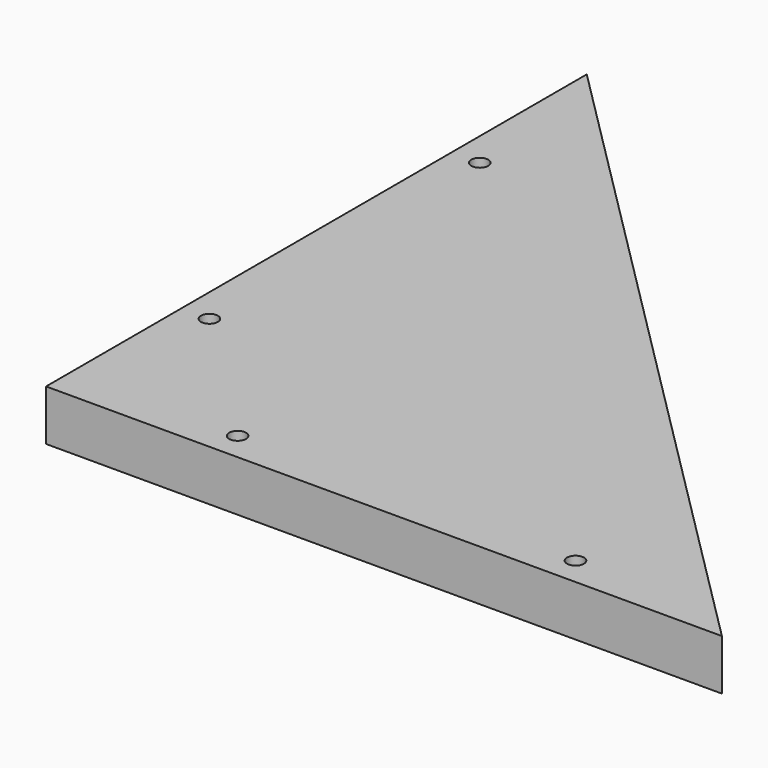
from build123d import *

# Parameters (mm, degrees)
PAD_DEPTH    = 9
SKETCH001_R  = 1.5
POCKET_DEPTH = 9.001


with BuildPart() as part:
    # Sketch → Pad (new body)
    with BuildSketch(Plane.XY):
        Polygon((0, 0), (0, 120), (120, 0), align=None)
    extrude(amount=-PAD_DEPTH)

    # Sketch001 (on Face4 of Pad) → Pocket (cut, through all)
    with BuildSketch(Plane.XY):
        with Locations((5, 30)):
            Circle(SKETCH001_R)
        with Locations((5, 90)):
            Circle(SKETCH001_R)
        with Locations((30, 5)):
            Circle(SKETCH001_R)
        with Locations((90, 5)):
            Circle(SKETCH001_R)
    extrude(amount=-POCKET_DEPTH, mode=Mode.SUBTRACT)


solid = part.part
